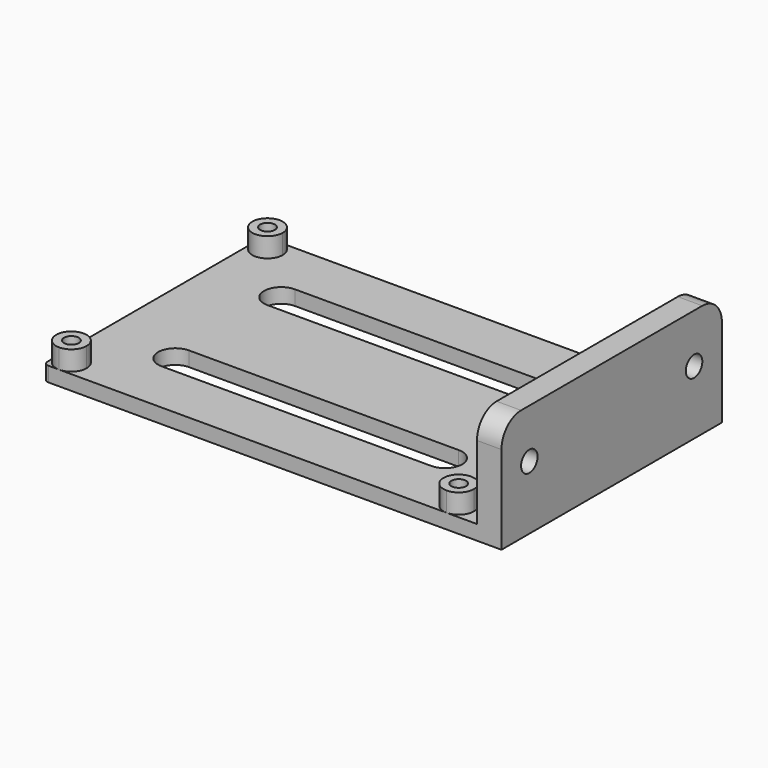
from build123d import *

# Parameters (mm, degrees)
F0_R     = 1.5
F1_DEPTH = 3
F2_DEPTH = 7
F0_W     = 5
F0_H     = 56.2
F3_DEPTH = 23
F4_R     = 2.1
F5_DEPTH = 5
F6_R     = 5


with BuildPart() as f1:
    # F0 (on Top) → F1 (new body)
    with BuildSketch(Plane.XY):
        with BuildLine():
            Line((-39.5, 28.1), (-41.7, 28.1))
            ThreePointArc((-41.7, 28.1), (-42.4071067812, 27.8071067812), (-42.7, 27.1))
            Line((-42.7, 27.1), (-42.7, -27.1))
            ThreePointArc((-42.7, -27.1), (-42.4071067812, -27.8071067812), (-41.7, -28.1))
            Line((-41.7, -28.1), (-39.5, -28.1))
            Line((-39.5, -28.1), (39.5, -28.1))
            Line((39.5, -28.1), (41.7, -28.1))
            ThreePointArc((41.7, -28.1), (42.4071067812, -27.8071067812), (42.7, -27.1))
            Line((42.7, -27.1), (42.7, 27.1))
            ThreePointArc((42.7, 27.1), (42.4071067812, 27.8071067812), (41.7, 28.1))
            Line((41.7, 28.1), (39.5, 28.1))
            Line((39.5, 28.1), (-39.5, 28.1))
        make_face()
        with BuildLine():
            ThreePointArc((-36.4, -25), (-37.3079689783, -27.1920310217), (-39.5, -28.1))
            ThreePointArc((-39.5, -28.1), (-41.6920310217, -22.8079689783), (-36.4, -25))
        make_face(mode=Mode.SUBTRACT)
        with BuildLine():
            Line((27.5, -17), (-27.5, -17))
            ThreePointArc((-27.5, -17), (-31, -13.5), (-27.5, -10))
            Line((-27.5, -10), (27.5, -10))
            ThreePointArc((27.5, -10), (31, -13.5), (27.5, -17))
        make_face(mode=Mode.SUBTRACT)
        with BuildLine():
            ThreePointArc((42.6, -25), (41.6920310217, -27.1920310217), (39.5, -28.1))
            ThreePointArc((39.5, -28.1), (37.3079689783, -22.8079689783), (42.6, -25))
        make_face(mode=Mode.SUBTRACT)
        with BuildLine():
            ThreePointArc((-27.5, 10), (-31, 13.5), (-27.5, 17))
            Line((-27.5, 17), (27.5, 17))
            ThreePointArc((27.5, 17), (31, 13.5), (27.5, 10))
            Line((27.5, 10), (-27.5, 10))
        make_face(mode=Mode.SUBTRACT)
        with BuildLine():
            ThreePointArc((-36.4, 25), (-41.6920310217, 22.8079689783), (-39.5, 28.1))
            ThreePointArc((-39.5, 28.1), (-37.3079689783, 27.1920310217), (-36.4, 25))
        make_face(mode=Mode.SUBTRACT)
        with BuildLine():
            ThreePointArc((42.6, 25), (37.3079689783, 22.8079689783), (39.5, 28.1))
            ThreePointArc((39.5, 28.1), (41.6920310217, 27.1920310217), (42.6, 25))
        make_face(mode=Mode.SUBTRACT)
        with BuildLine():
            Line((45.7, 28.1), (41.7, 28.1))
            ThreePointArc((41.7, 28.1), (42.4071067812, 27.8071067812), (42.7, 27.1))
            Line((42.7, 27.1), (42.7, -27.1))
            ThreePointArc((42.7, -27.1), (42.4071067812, -27.8071067812), (41.7, -28.1))
            Line((41.7, -28.1), (45.7, -28.1))
            Line((45.7, -28.1), (45.7, 28.1))
        make_face()
        with BuildLine():
            ThreePointArc((-36.4, 25), (-37.3079689783, 27.1920310217), (-39.5, 28.1))
            ThreePointArc((-39.5, 28.1), (-41.6920310217, 22.8079689783), (-36.4, 25))
        make_face()
        with Locations((-39.5, 25)):
            Circle(F0_R, mode=Mode.SUBTRACT)
        with BuildLine():
            ThreePointArc((-36.4, -25), (-41.6920310217, -22.8079689783), (-39.5, -28.1))
            ThreePointArc((-39.5, -28.1), (-37.3079689783, -27.1920310217), (-36.4, -25))
        make_face()
        with Locations((-39.5, -25)):
            Circle(F0_R, mode=Mode.SUBTRACT)
        with BuildLine():
            ThreePointArc((42.6, -25), (37.3079689783, -22.8079689783), (39.5, -28.1))
            ThreePointArc((39.5, -28.1), (41.6920310217, -27.1920310217), (42.6, -25))
        make_face()
        with Locations((39.5, -25)):
            Circle(F0_R, mode=Mode.SUBTRACT)
        with BuildLine():
            ThreePointArc((42.6, 25), (41.6920310217, 27.1920310217), (39.5, 28.1))
            ThreePointArc((39.5, 28.1), (37.3079689783, 22.8079689783), (42.6, 25))
        make_face()
        with Locations((39.5, 25)):
            Circle(F0_R, mode=Mode.SUBTRACT)
        with Locations((-39.5, 25)):
            Circle(F0_R)
        with Locations((-39.5, -25)):
            Circle(F0_R)
        with Locations((39.5, -25)):
            Circle(F0_R)
        with Locations((39.5, 25)):
            Circle(F0_R)
    extrude(amount=F1_DEPTH)

    # F0 (on Top) → F2 (join)
    with BuildSketch(Plane.XY):
        with BuildLine():
            ThreePointArc((-36.4, 25), (-37.3079689783, 27.1920310217), (-39.5, 28.1))
            ThreePointArc((-39.5, 28.1), (-41.6920310217, 22.8079689783), (-36.4, 25))
        make_face()
        with Locations((-39.5, 25)):
            Circle(F0_R, mode=Mode.SUBTRACT)
        with BuildLine():
            ThreePointArc((-36.4, -25), (-41.6920310217, -22.8079689783), (-39.5, -28.1))
            ThreePointArc((-39.5, -28.1), (-37.3079689783, -27.1920310217), (-36.4, -25))
        make_face()
        with Locations((-39.5, -25)):
            Circle(F0_R, mode=Mode.SUBTRACT)
        with BuildLine():
            ThreePointArc((42.6, -25), (37.3079689783, -22.8079689783), (39.5, -28.1))
            ThreePointArc((39.5, -28.1), (41.6920310217, -27.1920310217), (42.6, -25))
        make_face()
        with Locations((39.5, -25)):
            Circle(F0_R, mode=Mode.SUBTRACT)
        with BuildLine():
            ThreePointArc((42.6, 25), (41.6920310217, 27.1920310217), (39.5, 28.1))
            ThreePointArc((39.5, 28.1), (37.3079689783, 22.8079689783), (42.6, 25))
        make_face()
        with Locations((39.5, 25)):
            Circle(F0_R, mode=Mode.SUBTRACT)
    extrude(amount=F2_DEPTH)

    # F0 (on Top) → F3 (join)
    with BuildSketch(Plane.XY):
        with Locations((48.2, 0)):
            Rectangle(F0_W, F0_H)
    extrude(amount=F3_DEPTH)

    # F4 (on face) → F5 (cut, through all)
    with BuildSketch(Plane.YZ.offset(50.7)):
        with Locations((-21, 13)):
            Circle(F4_R)
        with Locations((21, 13)):
            Circle(F4_R)
    extrude(amount=-F5_DEPTH, mode=Mode.SUBTRACT)

    # F6
    f6_edges = [f1.edges().sort_by_distance(p)[0] for p in [
        (48.2, 28.1, 23),
        (48.2, -28.1, 23),
    ]]
    fillet(f6_edges, radius=F6_R)


solid = f1.part
